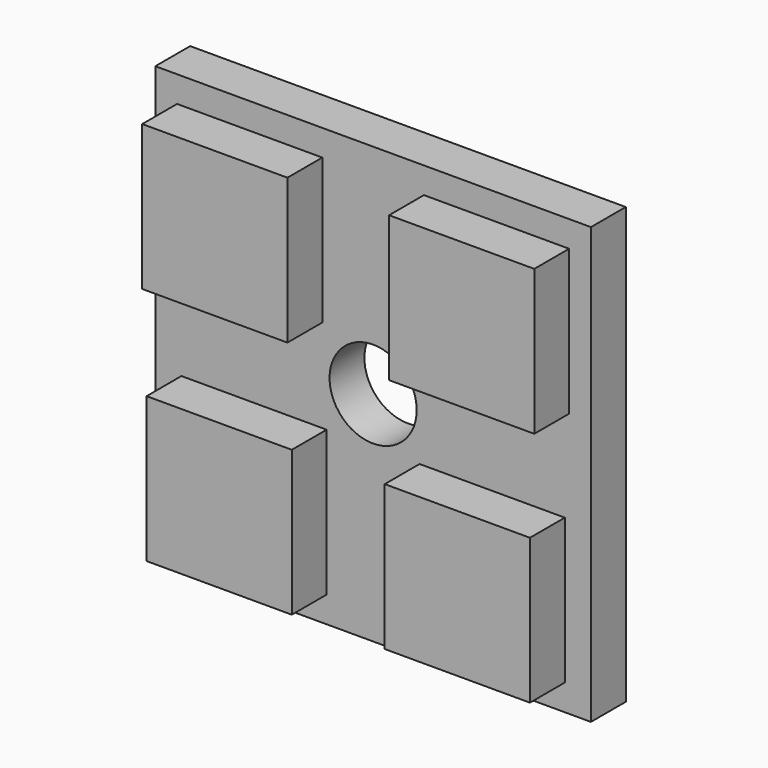
from build123d import *

# Parameters (mm, degrees)
F0_W     = 15
F0_H     = 15
F0_R     = 1.5
F1_DEPTH = 1.5
F2_W     = 5
F2_H     = 5
F3_DEPTH = 1.5


with BuildPart() as f1:
    # F0 (on Front) → F1 (new body)
    with BuildSketch(Plane.XZ):
        Rectangle(F0_W, F0_H)
        Circle(F0_R, mode=Mode.SUBTRACT)
    extrude(amount=F1_DEPTH)

    # F2 (on face) → F3 (join)
    with BuildSketch(Plane.XZ.offset(1.5)):
        with Locations((-4.25, 4.1)):
            Rectangle(F2_W, F2_H)
        with Locations((4.25, 4.1)):
            Rectangle(F2_W, F2_H)
        with Locations((-4.1, -4.1)):
            Rectangle(F2_W, F2_H)
        with Locations((4.1, -4.1)):
            Rectangle(F2_W, F2_H)
    extrude(amount=F3_DEPTH)


solid = f1.part
